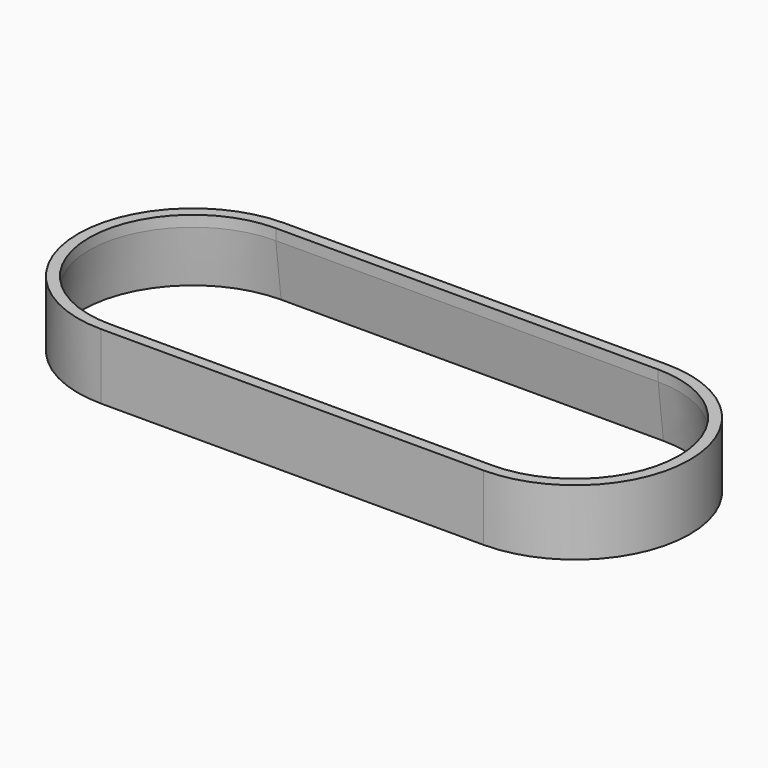
from build123d import *

# Parameters (mm, degrees)
F1_DEPTH = 12
F2_SIZE2 = 10
F2_SIZE  = 1.2


with BuildPart() as f1:
    # F0 (on Top) → F1 (new body)
    with BuildSketch(Plane.XY):
        with BuildLine():
            Line((35, 21), (-35, 21))
            ThreePointArc((-35, 21), (-56, 0), (-35, -21))
            Line((-35, -21), (35, -21))
            ThreePointArc((35, -21), (56, 0), (35, 21))
        make_face()
        with BuildLine():
            Line((35, -19), (-35, -19))
            ThreePointArc((-35, -19), (-54, 0), (-35, 19))
            Line((-35, 19), (35, 19))
            ThreePointArc((35, 19), (54, 0), (35, -19))
        make_face(mode=Mode.SUBTRACT)
    extrude(amount=F1_DEPTH)

    # F2
    f2_edges = [f1.edges().sort_by_distance(p)[0] for p in [
        (0, -19, 0),
    ]]
    f2_side = f1.faces().sort_by_distance((0, 19.803839, 0))[0]
    chamfer(f2_edges, length=F2_SIZE, length2=F2_SIZE2, reference=f2_side)


solid = f1.part
